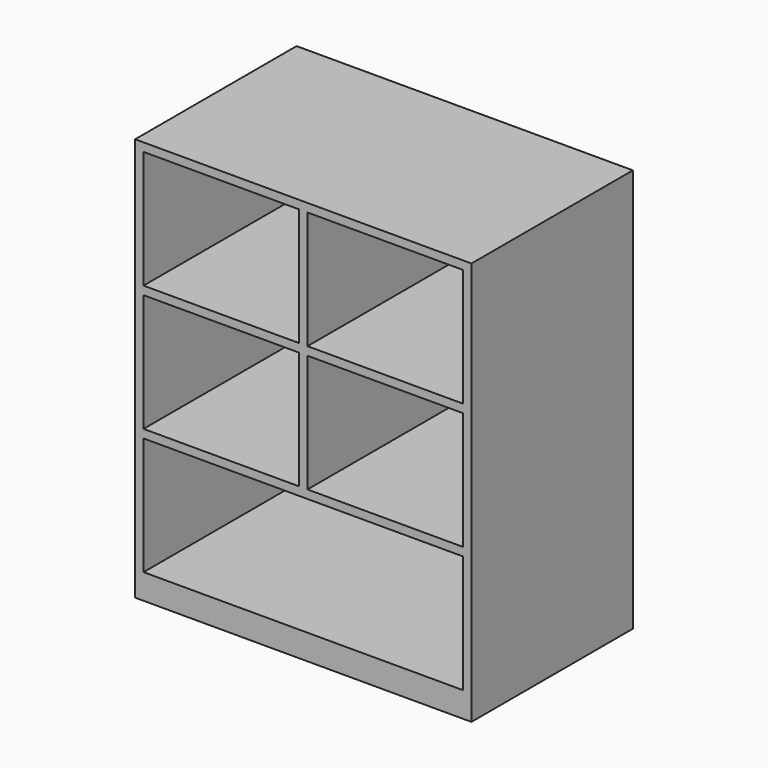
from build123d import *

# Parameters (mm, degrees)
F0_W     = 254
F0_H     = 304.8
F0_W_2   = 241.3
F0_H_2   = 88.9
F0_W_3   = 117.475
F1_DEPTH = 152.4
F2_W     = 254
F2_H     = 304.8
F3_DEPTH = 6.35


with BuildPart() as f1:
    # F0 (on Front) → F1 (new body)
    with BuildSketch(Plane.XZ):
        with Locations((127, 152.4)):
            Rectangle(F0_W, F0_H)
        with Locations((127, 63.5)):
            Rectangle(F0_W_2, F0_H_2, mode=Mode.SUBTRACT)
        with Locations((65.0875, 158.75)):
            Rectangle(F0_W_3, F0_H_2, mode=Mode.SUBTRACT)
        with Locations((65.0875, 254)):
            Rectangle(F0_W_3, F0_H_2, mode=Mode.SUBTRACT)
        with Locations((188.9125, 158.75)):
            Rectangle(F0_W_3, F0_H_2, mode=Mode.SUBTRACT)
        with Locations((188.9125, 254)):
            Rectangle(F0_W_3, F0_H_2, mode=Mode.SUBTRACT)
    extrude(amount=F1_DEPTH)

    # F2 (on Front) → F3 (join)
    with BuildSketch(Plane.XZ):
        with Locations((127, 152.4)):
            Rectangle(F2_W, F2_H)
    extrude(amount=F3_DEPTH)


solid = f1.part
